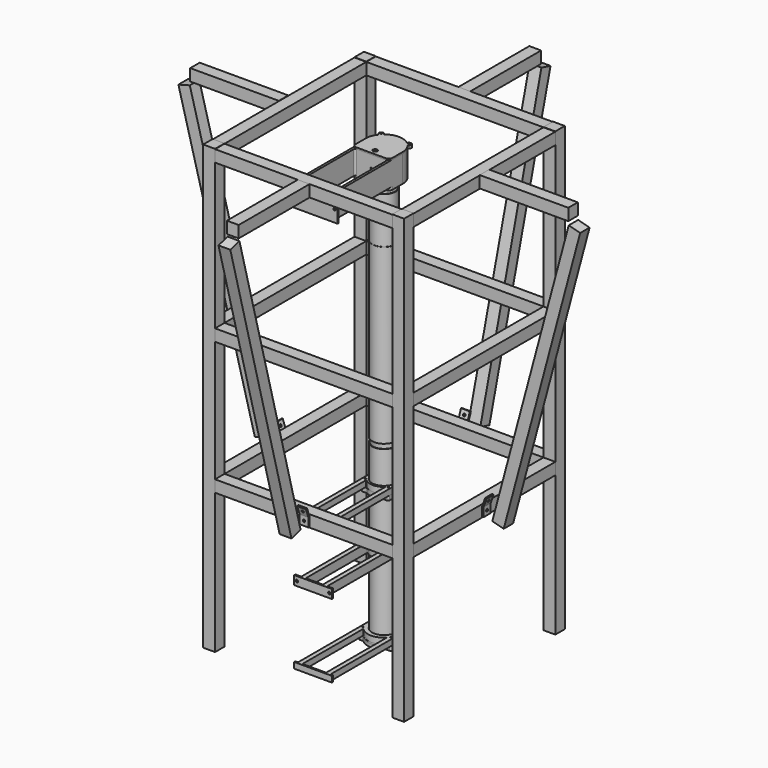
from build123d import *

# Parameters (mm, degrees)
SKETCH032_R             = 40
SKETCH032_R_2           = 38
PAD025_DEPTH            = 124
SKETCH039_R             = 40
SKETCH039_R_2           = 38
PAD031_DEPTH            = 586.5
SKETCH040_R             = 40
SKETCH040_R_2           = 38
PAD032_DEPTH            = 157
SKETCH041_R             = 40
SKETCH041_R_2           = 38
PAD033_DEPTH            = 423.5
SKETCH115_W             = 600
SKETCH115_H             = 40
PAD101_DEPTH            = 40
SKETCH116_W             = 600
SKETCH116_H             = 40
PAD102_DEPTH            = 40
BODY052_PLACEMENT_ANGLE = 90
SKETCH117_W             = 600
SKETCH117_H             = 40
PAD103_DEPTH            = 40
BODY053_PLACEMENT_ANGLE = 180
SKETCH118_W             = 600
SKETCH118_H             = 40
PAD104_DEPTH            = 40
BODY054_PLACEMENT_ANGLE = 90
SKETCH185_W             = 40
SKETCH185_H             = 40
PAD160_DEPTH            = 1500
SKETCH186_W             = 40
SKETCH186_H             = 40
PAD161_DEPTH            = 1500
SKETCH187_W             = 40
SKETCH187_H             = 40
PAD162_DEPTH            = 1500
SKETCH188_W             = 40
SKETCH188_H             = 40
PAD163_DEPTH            = 1500
SKETCH189_W             = 40
SKETCH189_H             = 40
PAD164_DEPTH            = 300
SKETCH190_W             = 40
SKETCH190_H             = 40
PAD165_DEPTH            = 300
SKETCH191_W             = 40
SKETCH191_H             = 40
PAD166_DEPTH            = 300
SKETCH192_W             = 40
SKETCH192_H             = 40
PAD167_DEPTH            = 300
SKETCH193_W             = 40
SKETCH193_H             = 40
PAD168_DEPTH            = 1000
BODY076_PLACEMENT_ANGLE = 15
SKETCH194_W             = 40
SKETCH194_H             = 40
PAD169_DEPTH            = 1000
BODY077_PLACEMENT_ANGLE = 15
SKETCH195_W             = 40
SKETCH195_H             = 40
PAD170_DEPTH            = 1000
BODY078_PLACEMENT_ANGLE = 15
SKETCH196_W             = 40
SKETCH196_H             = 40
PAD171_DEPTH            = 1000
BODY079_PLACEMENT_ANGLE = 15
SKETCH197_W             = 600
SKETCH197_H             = 40
PAD172_DEPTH            = 40
SKETCH198_W             = 600
SKETCH198_H             = 40
PAD173_DEPTH            = 40
SKETCH199_W             = 600
SKETCH199_H             = 40
PAD174_DEPTH            = 40
SKETCH200_W             = 600
SKETCH200_H             = 40
PAD175_DEPTH            = 40
SKETCH204_W             = 600
SKETCH204_H             = 40
PAD179_DEPTH            = 40
SKETCH205_W             = 600
SKETCH205_H             = 40
PAD180_DEPTH            = 40
SKETCH206_W             = 600
SKETCH206_H             = 40
PAD181_DEPTH            = 40
SKETCH207_W             = 600
SKETCH207_H             = 40
PAD182_DEPTH            = 40
PAD183_DEPTH            = 30
SKETCH209_R             = 4.1
POCKET019_DEPTH         = 5
SKETCH210_R             = 4.1
POCKET020_DEPTH         = 5
PAD184_DEPTH            = 30
SKETCH211_R             = 4.1
POCKET021_DEPTH         = 5
SKETCH213_R             = 4.1
POCKET022_DEPTH         = 5
BODY090_PLACEMENT_ANGLE = 90
PAD185_DEPTH            = 30
SKETCH214_R             = 4.1
POCKET023_DEPTH         = 5
SKETCH216_R             = 4.1
POCKET024_DEPTH         = 5
BODY091_PLACEMENT_ANGLE = 180
PAD186_DEPTH            = 30
SKETCH217_R             = 4.1
POCKET025_DEPTH         = 5
SKETCH219_R             = 4.1
POCKET026_DEPTH         = 5
BODY092_PLACEMENT_ANGLE = 90
PAD237_DEPTH            = 30
SKETCH296_R             = 2.25
POCKET049_DEPTH         = 72.001
SKETCH297_R             = 4.1
POCKET050_DEPTH         = 5
PAD238_DEPTH            = 10
PAD239_DEPTH            = 5
PAD240_DEPTH            = 10
SKETCH304_R             = 2.25
POCKET051_DEPTH         = 72.001
SKETCH309_R             = 2.25
POCKET052_DEPTH         = 20.001
SKETCH308_R             = 2.25
PAD242_DEPTH            = 10
SKETCH311_R             = 2.25
PAD243_DEPTH            = 5
SKETCH312_R             = 2.25
POCKET053_DEPTH         = 55.001
BODY095_PLACEMENT_ANGLE = 180
PAD244_DEPTH            = 10
PAD245_DEPTH            = 5
PAD246_DEPTH            = 10
SKETCH316_R             = 2.25
POCKET054_DEPTH         = 72.001
SKETCH318_R             = 2.25
POCKET055_DEPTH         = 20.001
SKETCH317_R             = 2.25
PAD247_DEPTH            = 10
SKETCH319_R             = 2.25
PAD248_DEPTH            = 5
SKETCH320_R             = 2.25
POCKET056_DEPTH         = 63.001
BODY099_PLACEMENT_ANGLE = 180
SKETCH321_R             = 40.5
PAD249_DEPTH            = 10
PAD252_DEPTH            = 75
SKETCH323_R             = 2.25
PAD253_DEPTH            = 5
SKETCH326_R             = 1.7
POCKET057_DEPTH         = 5
SKETCH325_R             = 4.1
POCKET058_DEPTH         = 5
SKETCH324_R             = 2.25
SKETCH324_R_2           = 7.5
PAD254_DEPTH            = 5


with BuildPart() as w2_to_w3_pipe:
    # Sketch032 → Pad025 (new body)
    with BuildSketch(Plane.XY):
        Circle(SKETCH032_R)
        Circle(SKETCH032_R_2, mode=Mode.SUBTRACT)
    extrude(amount=PAD025_DEPTH)


with BuildPart() as w2_to_w3_pipe_1:
    # Body005 placement: moved
    add(w2_to_w3_pipe.part.moved(Location((0, 0, 16))))


with BuildPart() as w3_to_end:
    # Sketch039 → Pad031 (new body)
    with BuildSketch(Plane.XY):
        Circle(SKETCH039_R)
        Circle(SKETCH039_R_2, mode=Mode.SUBTRACT)
    extrude(amount=PAD031_DEPTH)


with BuildPart() as w3_to_end_1:
    # Body007 placement: moved
    add(w3_to_end.part.moved(Location((0, 0, 156))))


with BuildPart() as end_to_sample:
    # Sketch040 → Pad032 (new body)
    with BuildSketch(Plane.XY):
        Circle(SKETCH040_R)
        Circle(SKETCH040_R_2, mode=Mode.SUBTRACT)
    extrude(amount=PAD032_DEPTH)


with BuildPart() as end_to_sample_1:
    # Body008 placement: moved
    add(end_to_sample.part.moved(Location((0, 0, 743))))


with BuildPart() as top_to_w2:
    # Sketch041 → Pad033 (new body)
    with BuildSketch(Plane.XY):
        Circle(SKETCH041_R)
        Circle(SKETCH041_R_2, mode=Mode.SUBTRACT)
    extrude(amount=-PAD033_DEPTH)


with BuildPart() as bottom001:
    # Sketch115 → Pad101 (new body)
    with BuildSketch(Plane.XY):
        with Locations((0, 320)):
            Rectangle(SKETCH115_W, SKETCH115_H)
    extrude(amount=PAD101_DEPTH)


with BuildPart() as bottom001_1:
    # Body051 placement: moved
    add(bottom001.part.moved(Location((0, 0, 1014))))


with BuildPart() as bottom002:
    # Sketch116 → Pad102 (new body)
    with BuildSketch(Plane.XY):
        with Locations((0, 320)):
            Rectangle(SKETCH116_W, SKETCH116_H)
    extrude(amount=PAD102_DEPTH)


with BuildPart() as bottom002_1:
    # Body052 placement: moved
    add(bottom002.part.moved(Location((0, 0, 1014))).rotate(Axis((0, 0, 1014), (0, 0, -1)), BODY052_PLACEMENT_ANGLE))


with BuildPart() as bottom003:
    # Sketch117 → Pad103 (new body)
    with BuildSketch(Plane.XY):
        with Locations((0, 320)):
            Rectangle(SKETCH117_W, SKETCH117_H)
    extrude(amount=PAD103_DEPTH)


with BuildPart() as bottom003_1:
    # Body053 placement: moved
    add(bottom003.part.moved(Location((0, 0, 1014))).rotate(Axis((0, 0, 1014), (0, 0, 1)), BODY053_PLACEMENT_ANGLE))


with BuildPart() as bottom004:
    # Sketch118 → Pad104 (new body)
    with BuildSketch(Plane.XY):
        with Locations((0, 320)):
            Rectangle(SKETCH118_W, SKETCH118_H)
    extrude(amount=PAD104_DEPTH)


with BuildPart() as bottom004_1:
    # Body054 placement: moved
    add(bottom004.part.moved(Location((0, 0, 1014))).rotate(Axis((0, 0, 1014), (0, 0, 1)), BODY054_PLACEMENT_ANGLE))


with BuildPart() as vertical001:
    # Sketch185 → Pad160 (new body)
    with BuildSketch(Plane.XY):
        with Locations((-320, 320)):
            Rectangle(SKETCH185_W, SKETCH185_H)
    extrude(amount=PAD160_DEPTH)


with BuildPart() as vertical001_1:
    # Body068 placement: moved
    add(vertical001.part.moved(Location((0, 0, -445))))


with BuildPart() as vertical002:
    # Sketch186 → Pad161 (new body)
    with BuildSketch(Plane.XY):
        with Locations((-320, 320)):
            Rectangle(SKETCH186_W, SKETCH186_H)
    extrude(amount=PAD161_DEPTH)


with BuildPart() as vertical002_1:
    # Body069 placement: moved
    add(vertical002.part.moved(Location((0, -640, -445))))


with BuildPart() as vertical003:
    # Sketch187 → Pad162 (new body)
    with BuildSketch(Plane.XY):
        with Locations((-320, 320)):
            Rectangle(SKETCH187_W, SKETCH187_H)
    extrude(amount=PAD162_DEPTH)


with BuildPart() as vertical003_1:
    # Body070 placement: moved
    add(vertical003.part.moved(Location((640, -640, -445))))


with BuildPart() as vertical004:
    # Sketch188 → Pad163 (new body)
    with BuildSketch(Plane.XY):
        with Locations((-320, 320)):
            Rectangle(SKETCH188_W, SKETCH188_H)
    extrude(amount=PAD163_DEPTH)


with BuildPart() as vertical004_1:
    # Body071 placement: moved
    add(vertical004.part.moved(Location((640, 0, -445))))


with BuildPart() as brace001:
    # Sketch189 (on Face1 of CopyPad102) → Pad164 (new body)
    with BuildSketch(Plane(origin=(0, 340, 0), x_dir=(-1, 0, 0), z_dir=(0, 1, 0))):
        with Locations((0, 1034)):
            Rectangle(SKETCH189_W, SKETCH189_H)
    extrude(amount=PAD164_DEPTH)


with BuildPart() as brace002:
    # Sketch190 (on Face1 of CopyPad134) → Pad165 (new body)
    with BuildSketch(Plane(origin=(0, 340, 0), x_dir=(-1, 0, 0), z_dir=(0, 1, 0))):
        with Locations((0, 1034)):
            Rectangle(SKETCH190_W, SKETCH190_H)
    extrude(amount=PAD165_DEPTH)


with BuildPart() as brace002_1:
    # Body073 placement: moved
    add(brace002.part.moved(Location((0, -980, 0))))


with BuildPart() as brace003:
    # Sketch191 → Pad166 (new body)
    with BuildSketch(Plane.YZ):
        with Locations((0, 1035)):
            Rectangle(SKETCH191_W, SKETCH191_H)
    extrude(amount=PAD166_DEPTH)


with BuildPart() as brace003_1:
    # Body074 placement: moved
    add(brace003.part.moved(Location((340, 0, 0))))


with BuildPart() as brace004:
    # Sketch192 → Pad167 (new body)
    with BuildSketch(Plane.YZ):
        with Locations((0, 1035)):
            Rectangle(SKETCH192_W, SKETCH192_H)
    extrude(amount=PAD167_DEPTH)


with BuildPart() as brace004_1:
    # Body075 placement: moved
    add(brace004.part.moved(Location((-640, 0, 0))))


with BuildPart() as angled001:
    # Sketch193 (on Face1 of CopyPad164) → Pad168 (new body)
    with BuildSketch(Plane(origin=(0, 0, 1014), x_dir=(1, 0, 0), z_dir=(0, 0, -1))):
        with Locations((0, -660)):
            Rectangle(SKETCH193_W, SKETCH193_H)
    extrude(amount=PAD168_DEPTH)


with BuildPart() as angled001_1:
    # Body076 placement: moved
    add(angled001.part.moved(Location((0, -239.4009459486, 188.3804317834))).rotate(Axis((0, -239.4009459486, 188.3804317834), (-1, 0, 0)), BODY076_PLACEMENT_ANGLE))


with BuildPart() as angled002:
    # Sketch194 (on Face1 of CopyPad165) → Pad169 (new body)
    with BuildSketch(Plane(origin=(0, 0, 1014), x_dir=(1, 0, 0), z_dir=(0, 0, -1))):
        with Locations((0, -660)):
            Rectangle(SKETCH194_W, SKETCH194_H)
    extrude(amount=PAD169_DEPTH)


with BuildPart() as angled002_1:
    # Body077 placement: moved
    add(angled002.part.moved(Location((0, -1031.2376117681, -150.387110959))).rotate(Axis((0, -1031.2376117681, -150.387110959), (1, 0, 0)), BODY077_PLACEMENT_ANGLE))


with BuildPart() as angled003:
    # Sketch195 (on Face1 of CopyPad167) → Pad170 (new body)
    with BuildSketch(Plane.YX.offset(-1015)):
        with Locations((0, -660)):
            Rectangle(SKETCH195_W, SKETCH195_H)
    extrude(amount=PAD170_DEPTH)


with BuildPart() as angled003_1:
    # Body078 placement: moved
    add(angled003.part.moved(Location((239.4009459486, 0, 188.3804317834))).rotate(Axis((239.4009459486, 0, 188.3804317834), (0, -1, 0)), BODY078_PLACEMENT_ANGLE))


with BuildPart() as angled004:
    # Sketch196 (on Face1 of CopyPad166) → Pad171 (new body)
    with BuildSketch(Plane.YX.offset(-1015)):
        with Locations((0, 660)):
            Rectangle(SKETCH196_W, SKETCH196_H)
    extrude(amount=PAD171_DEPTH)


with BuildPart() as angled004_1:
    # Body079 placement: moved
    add(angled004.part.moved(Location((-239.4009459486, 0, 188.3804317834))).rotate(Axis((-239.4009459486, 0, 188.3804317834), (0, 1, 0)), BODY079_PLACEMENT_ANGLE))


with BuildPart() as brace005:
    # Sketch197 (on Face1 of CopyPad161) → Pad172 (new body)
    with BuildSketch(Plane.XZ.offset(-300)):
        Rectangle(SKETCH197_W, SKETCH197_H)
    extrude(amount=-PAD172_DEPTH)


with BuildPart() as brace005_1:
    # Body080 placement: moved
    add(brace005.part.moved(Location((0, 0, 50))))


with BuildPart() as brace006:
    # Sketch198 (on Face1 of CopyPad168) → Pad173 (new body)
    with BuildSketch(Plane.XZ.offset(-300)):
        Rectangle(SKETCH198_W, SKETCH198_H)
    extrude(amount=-PAD173_DEPTH)


with BuildPart() as brace006_1:
    # Body081 placement: moved
    add(brace006.part.moved(Location((0, -640, 50))))


with BuildPart() as brace007:
    # Sketch199 (on Face1 of CopyPad161001) → Pad174 (new body)
    with BuildSketch(Plane(origin=(-340, 0, 0), x_dir=(0, -1, 0), z_dir=(-1, 0, 0))):
        Rectangle(SKETCH199_W, SKETCH199_H)
    extrude(amount=-PAD174_DEPTH)


with BuildPart() as brace007_1:
    # Body082 placement: moved
    add(brace007.part.moved(Location((0, 0, 50))))


with BuildPart() as brace008:
    # Sketch200 (on Face1 of CopyPad161002) → Pad175 (new body)
    with BuildSketch(Plane(origin=(-340, 0, 0), x_dir=(0, -1, 0), z_dir=(-1, 0, 0))):
        Rectangle(SKETCH200_W, SKETCH200_H)
    extrude(amount=-PAD175_DEPTH)


with BuildPart() as brace008_1:
    # Body083 placement: moved
    add(brace008.part.moved(Location((640, 0, 50))))


with BuildPart() as brace009:
    # Sketch204 (on Face1 of CopyPad161003) → Pad179 (new body)
    with BuildSketch(Plane(origin=(-340, 0, 0), x_dir=(0, -1, 0), z_dir=(-1, 0, 0))):
        Rectangle(SKETCH204_W, SKETCH204_H)
    extrude(amount=-PAD179_DEPTH)


with BuildPart() as brace009_1:
    # Body085 placement: moved
    add(brace009.part.moved(Location((0, 0, 500))))


with BuildPart() as brace010:
    # Sketch205 (on Face1 of CopyPad161004) → Pad180 (new body)
    with BuildSketch(Plane.XZ.offset(-300)):
        Rectangle(SKETCH205_W, SKETCH205_H)
    extrude(amount=-PAD180_DEPTH)


with BuildPart() as brace010_1:
    # Body086 placement: moved
    add(brace010.part.moved(Location((0, -640, 500))))


with BuildPart() as brace011:
    # Sketch206 (on Face1 of CopyPad161005) → Pad181 (new body)
    with BuildSketch(Plane(origin=(-340, 0, 0), x_dir=(0, -1, 0), z_dir=(-1, 0, 0))):
        Rectangle(SKETCH206_W, SKETCH206_H)
    extrude(amount=-PAD181_DEPTH)


with BuildPart() as brace011_1:
    # Body087 placement: moved
    add(brace011.part.moved(Location((640, 0, 500))))


with BuildPart() as brace012:
    # Sketch207 (on Face1 of CopyPad161006) → Pad182 (new body)
    with BuildSketch(Plane.XZ.offset(-300)):
        Rectangle(SKETCH207_W, SKETCH207_H)
    extrude(amount=-PAD182_DEPTH)


with BuildPart() as brace012_1:
    # Body088 placement: moved
    add(brace012.part.moved(Location((0, 0, 500))))


with BuildPart() as angled_connector001:
    # Sketch208 (on Face1 of CopyPad170) → Pad183 (new body)
    with BuildSketch(Plane(origin=(0, -20, 0), x_dir=(0, 0, -1), z_dir=(0, -1, 0))):
        Polygon((-32.5, -340), (-32.5, -345), (-62.5, -345), (-90.6907786236, -355.2606042998), (-92.2977476478, -350.845493192), (-62.5, -340), align=None)
    extrude(amount=-PAD183_DEPTH)

    # Sketch209 (on Face2 of Pad183) → Pocket019 (cut)
    with BuildSketch(Plane(origin=(-345, 0, 0), x_dir=(0, 1, 0), z_dir=(-1, 0, 0))):
        with Locations((-5, -47.5)):
            Circle(SKETCH209_R)
    extrude(amount=-POCKET019_DEPTH, mode=Mode.SUBTRACT)

    # Sketch210 (on Face8 of Pocket019) → Pocket020 (cut)
    with BuildSketch(Plane(origin=(-284.5555536353, 0, -103.5697515184), x_dir=(0, 1, 0), z_dir=(-0.9396926208, 0, -0.3420201433))):
        with Locations((-5, -192.5)):
            Circle(SKETCH210_R)
    extrude(amount=-POCKET020_DEPTH, mode=Mode.SUBTRACT)


with BuildPart() as angled_connector002:
    # Sketch212 (on Face1 of CopyPad161007) → Pad184 (new body)
    with BuildSketch(Plane(origin=(0, -20, 0), x_dir=(0, 0, -1), z_dir=(0, -1, 0))):
        Polygon((-32.5, -340), (-32.5, -345), (-62.5, -345), (-90.6907786236, -355.2606042998), (-92.2977476478, -350.845493192), (-62.5, -340), align=None)
    extrude(amount=-PAD184_DEPTH)

    # Sketch211 (on Face2 of Pad184) → Pocket021 (cut)
    with BuildSketch(Plane(origin=(-345, 0, 0), x_dir=(0, 1, 0), z_dir=(-1, 0, 0))):
        with Locations((-5, -47.5)):
            Circle(SKETCH211_R)
    extrude(amount=-POCKET021_DEPTH, mode=Mode.SUBTRACT)

    # Sketch213 (on Face8 of Pocket021) → Pocket022 (cut)
    with BuildSketch(Plane(origin=(-284.5555536353, 0, -103.5697515184), x_dir=(0, 1, 0), z_dir=(-0.9396926208, 0, -0.3420201433))):
        with Locations((-5, -192.5)):
            Circle(SKETCH213_R)
    extrude(amount=-POCKET022_DEPTH, mode=Mode.SUBTRACT)


with BuildPart() as angled_connector002_1:
    # Body090 placement: moved
    add(angled_connector002.part.rotate(Axis((0, 0, 0), (0, 0, 1)), BODY090_PLACEMENT_ANGLE))


with BuildPart() as angled_connector003:
    # Sketch215 (on Face1 of CopyPad161008) → Pad185 (new body)
    with BuildSketch(Plane(origin=(0, -20, 0), x_dir=(0, 0, -1), z_dir=(0, -1, 0))):
        Polygon((-32.5, -340), (-32.5, -345), (-62.5, -345), (-90.6907786236, -355.2606042998), (-92.2977476478, -350.845493192), (-62.5, -340), align=None)
    extrude(amount=-PAD185_DEPTH)

    # Sketch214 (on Face2 of Pad185) → Pocket023 (cut)
    with BuildSketch(Plane(origin=(-345, 0, 0), x_dir=(0, 1, 0), z_dir=(-1, 0, 0))):
        with Locations((-5, -47.5)):
            Circle(SKETCH214_R)
    extrude(amount=-POCKET023_DEPTH, mode=Mode.SUBTRACT)

    # Sketch216 (on Face8 of Pocket023) → Pocket024 (cut)
    with BuildSketch(Plane(origin=(-284.5555536353, 0, -103.5697515184), x_dir=(0, 1, 0), z_dir=(-0.9396926208, 0, -0.3420201433))):
        with Locations((-5, -192.5)):
            Circle(SKETCH216_R)
    extrude(amount=-POCKET024_DEPTH, mode=Mode.SUBTRACT)


with BuildPart() as angled_connector003_1:
    # Body091 placement: moved
    add(angled_connector003.part.rotate(Axis((0, 0, 0), (0, 0, 1)), BODY091_PLACEMENT_ANGLE))


with BuildPart() as angled_connector004:
    # Sketch218 (on Face1 of CopyPad161009) → Pad186 (new body)
    with BuildSketch(Plane(origin=(0, -20, 0), x_dir=(0, 0, -1), z_dir=(0, -1, 0))):
        Polygon((-32.5, -340), (-32.5, -345), (-62.5, -345), (-90.6907786236, -355.2606042998), (-92.2977476478, -350.845493192), (-62.5, -340), align=None)
    extrude(amount=-PAD186_DEPTH)

    # Sketch217 (on Face2 of Pad186) → Pocket025 (cut)
    with BuildSketch(Plane(origin=(-345, 0, 0), x_dir=(0, 1, 0), z_dir=(-1, 0, 0))):
        with Locations((-5, -47.5)):
            Circle(SKETCH217_R)
    extrude(amount=-POCKET025_DEPTH, mode=Mode.SUBTRACT)

    # Sketch219 (on Face8 of Pocket025) → Pocket026 (cut)
    with BuildSketch(Plane(origin=(-284.5555536353, 0, -103.5697515184), x_dir=(0, 1, 0), z_dir=(-0.9396926208, 0, -0.3420201433))):
        with Locations((-5, -192.5)):
            Circle(SKETCH219_R)
    extrude(amount=-POCKET026_DEPTH, mode=Mode.SUBTRACT)


with BuildPart() as angled_connector004_1:
    # Body092 placement: moved
    add(angled_connector004.part.rotate(Axis((0, 0, 0), (0, 0, -1)), BODY092_PLACEMENT_ANGLE))


with BuildPart() as pipesupport002:
    # Sketch121 → Pad237 (new body)
    with BuildSketch(Plane.XY):
        with BuildLine():
            ThreePointArc((-6.28125, 40.0099474936), (0, -40.5), (6.28125, 40.0099474936))
            ThreePointArc((4, 42.6772773265), (4.648095397, 40.9223734829), (6.28125, 40.0099474936))
            Line((4, 42.6772773265), (4, 53.8998886413))
            ThreePointArc((5, 54.8998886413), (4.2928932188, 54.6069954225), (4, 53.8998886413))
            Line((5, 54.8998886413), (7, 54.8998886413))
            ThreePointArc((8, 53.8998886413), (7.7071067812, 54.6069954225), (7, 54.8998886413))
            Line((8, 44.8998886413), (8, 53.8998886413))
            ThreePointArc((8, 44.8998886413), (8.4396210048, 43.6488021569), (9.5652173913, 42.9477195699))
            ThreePointArc((44, 0), (34.3283378946, 27.5239026555), (9.5652173913, 42.9477195699))
            Line((44, 0), (44, -292))
            ThreePointArc((44, -292), (44.8786796564, -294.1213203436), (47, -295))
            Line((47, -295), (63, -295))
            ThreePointArc((64, -296), (63.7071067812, -295.2928932188), (63, -295))
            Line((64, -300), (64, -296))
            Line((-64, -300), (64, -300))
            Line((-64, -300), (-64, -296))
            ThreePointArc((-63, -295), (-63.7071067812, -295.2928932188), (-64, -296))
            Line((-47, -295), (-63, -295))
            ThreePointArc((-47, -295), (-44.8786796564, -294.1213203436), (-44, -292))
            Line((-44, 0), (-44, -292))
            ThreePointArc((-9.5652173913, 42.9477195699), (-34.3283378946, 27.5239026555), (-44, 0))
            ThreePointArc((-9.5652173913, 42.9477195699), (-8.4396210048, 43.6488021569), (-8, 44.8998886413))
            Line((-8, 44.8998886413), (-8, 53.8998886413))
            ThreePointArc((-7, 54.8998886413), (-7.7071067812, 54.6069954225), (-8, 53.8998886413))
            Line((-5, 54.8998886413), (-7, 54.8998886413))
            ThreePointArc((-4, 53.8998886413), (-4.2928932188, 54.6069954225), (-5, 54.8998886413))
            Line((-4, 42.6772773265), (-4, 53.8998886413))
            ThreePointArc((-6.28125, 40.0099474936), (-4.648095397, 40.9223734829), (-4, 42.6772773265))
        make_face()
        with BuildLine():
            Line((-26, -295), (26, -295))
            ThreePointArc((26, -295), (28.1213203436, -294.1213203436), (29, -292))
            Line((29, -292), (29, -35.2278299076))
            ThreePointArc((29, -35.2278299076), (28.4346134937, -34.3272128352), (27.3777777778, -34.444989243))
            ThreePointArc((-27.3777777778, -34.444989243), (0, -44), (27.3777777778, -34.444989243))
            ThreePointArc((-27.3777777778, -34.444989243), (-28.4346134937, -34.3272128352), (-29, -35.2278299076))
            Line((-29, -292), (-29, -35.2278299076))
            ThreePointArc((-29, -292), (-28.1213203436, -294.1213203436), (-26, -295))
        make_face(mode=Mode.SUBTRACT)
    extrude(amount=PAD237_DEPTH)

    # Sketch296 (on Face23 of Pad237) → Pocket049 (cut, through all)
    with BuildSketch(Plane(origin=(-8, 0, 0), x_dir=(0, -1, 0), z_dir=(-1, 0, 0))):
        with Locations((-49, 15)):
            Circle(SKETCH296_R)
    extrude(amount=-POCKET049_DEPTH, mode=Mode.SUBTRACT)

    # Sketch297 (on Face22 of Pocket049) → Pocket050 (cut)
    with BuildSketch(Plane(origin=(0, -295, 0), x_dir=(-1, 0, 0), z_dir=(0, 1, 0))):
        with Locations((-55, 15)):
            Circle(SKETCH297_R)
        with Locations((55, 15)):
            Circle(SKETCH297_R)
    extrude(amount=-POCKET050_DEPTH, mode=Mode.SUBTRACT)


with BuildPart() as pipesupport002_1:
    # Body035 placement: moved
    add(pipesupport002.part.moved(Location((0, 0, 484))))


with BuildPart() as pipesupport002_2:
    # Body093 placement: moved
    add(pipesupport002_1.part.moved(Location((0, 0, -669))))


with BuildPart() as windowsupport003:
    # Sketch300 → Pad238 (new body)
    with BuildSketch(Plane.XY):
        with BuildLine():
            ThreePointArc((-7.2808988764, 39.8401620422), (0, -40.5), (7.2808988764, 39.8401620422))
            ThreePointArc((4, 43.7749928612), (4.9278342741, 41.213392238), (7.2808988764, 39.8401620422))
            Line((4, 43.7749928612), (4, 56.9687398208))
            ThreePointArc((5, 57.9687398208), (4.2928932188, 57.675846602), (4, 56.9687398208))
            Line((5, 57.9687398208), (7, 57.9687398208))
            ThreePointArc((8, 56.9687398208), (7.7071067812, 57.675846602), (7, 57.9687398208))
            Line((8, 47.9687398208), (8, 56.9687398208))
            ThreePointArc((8, 47.9687398208), (8.4481742155, 46.7070596971), (9.5918367347, 46.0108320731))
            ThreePointArc((47, 0), (36.4679059347, 29.6494829084), (9.5918367347, 46.0108320731))
            Line((47, 0), (47, -292))
            ThreePointArc((47, -292), (47.8786796564, -294.1213203436), (50, -295))
            Line((50, -295), (63, -295))
            ThreePointArc((64, -296), (63.7071067812, -295.2928932188), (63, -295))
            Line((64, -300), (64, -296))
            Line((-64, -300), (64, -300))
            Line((-64, -300), (-64, -296))
            ThreePointArc((-63, -295), (-63.7071067812, -295.2928932188), (-64, -296))
            Line((-50, -295), (-63, -295))
            ThreePointArc((-50, -295), (-47.8786796564, -294.1213203436), (-47, -292))
            Line((-47, 0), (-47, -292))
            ThreePointArc((-9.5918367347, 46.0108320731), (-36.4679059347, 29.6494829084), (-47, 0))
            ThreePointArc((-9.5918367347, 46.0108320731), (-8.4481742155, 46.7070596971), (-8, 47.9687398208))
            Line((-8, 47.9687398208), (-8, 56.9687398208))
            ThreePointArc((-7, 57.9687398208), (-7.7071067812, 57.675846602), (-8, 56.9687398208))
            Line((-5, 57.9687398208), (-7, 57.9687398208))
            ThreePointArc((-4, 56.9687398208), (-4.2928932188, 57.675846602), (-5, 57.9687398208))
            Line((-4, 43.7749928612), (-4, 56.9687398208))
            ThreePointArc((-7.2808988764, 39.8401620422), (-4.9278342741, 41.213392238), (-4, 43.7749928612))
        make_face()
        with BuildLine():
            Line((-29, -295), (29, -295))
            ThreePointArc((29, -295), (31.1213203436, -294.1213203436), (32, -292))
            Line((32, -292), (32, -36.6469644036))
            ThreePointArc((32, -36.6469644036), (31.4208127058, -35.7398168596), (30.3541666667, -35.8834859785))
            ThreePointArc((-30.3541666667, -35.8834859785), (0, -47), (30.3541666667, -35.8834859785))
            ThreePointArc((-30.3541666667, -35.8834859785), (-31.4208127058, -35.7398168596), (-32, -36.6469644036))
            Line((-32, -292), (-32, -36.6469644036))
            ThreePointArc((-32, -292), (-31.1213203436, -294.1213203436), (-29, -295))
        make_face(mode=Mode.SUBTRACT)
    extrude(amount=PAD238_DEPTH)

    # Sketch301 → Pad239 (join)
    with BuildSketch(Plane.XY):
        with BuildLine():
            ThreePointArc((-7.2380952381, 37.3042889937), (0, -38), (7.2380952381, 37.3042889937))
            ThreePointArc((4, 41.2310562562), (4.9139330008, 38.6862202151), (7.2380952381, 37.3042889937))
            Line((4, 41.2310562562), (4, 56.9687398208))
            ThreePointArc((5, 57.9687398208), (4.2928932188, 57.675846602), (4, 56.9687398208))
            Line((5, 57.9687398208), (7, 57.9687398208))
            ThreePointArc((8, 56.9687398208), (7.7071067812, 57.675846602), (7, 57.9687398208))
            Line((8, 47.9687398208), (8, 56.9687398208))
            ThreePointArc((8, 47.9687398208), (8.4481742155, 46.7070596971), (9.5918367347, 46.0108320731))
            ThreePointArc((47, 0), (36.4679059347, 29.6494829084), (9.5918367347, 46.0108320731))
            Line((47, 0), (47, -292))
            ThreePointArc((47, -292), (47.8786796564, -294.1213203436), (50, -295))
            Line((50, -295), (63, -295))
            ThreePointArc((64, -296), (63.7071067812, -295.2928932188), (63, -295))
            Line((64, -300), (64, -296))
            Line((-64, -300), (64, -300))
            Line((-64, -300), (-64, -296))
            ThreePointArc((-63, -295), (-63.7071067812, -295.2928932188), (-64, -296))
            Line((-50, -295), (-63, -295))
            ThreePointArc((-50, -295), (-47.8786796564, -294.1213203436), (-47, -292))
            Line((-47, 0), (-47, -292))
            ThreePointArc((-9.5918367347, 46.0108320731), (-36.4679059347, 29.6494829084), (-47, 0))
            ThreePointArc((-9.5918367347, 46.0108320731), (-8.4481742155, 46.7070596971), (-8, 47.9687398208))
            Line((-8, 47.9687398208), (-8, 56.9687398208))
            ThreePointArc((-7, 57.9687398208), (-7.7071067812, 57.675846602), (-8, 56.9687398208))
            Line((-5, 57.9687398208), (-7, 57.9687398208))
            ThreePointArc((-4, 56.9687398208), (-4.2928932188, 57.675846602), (-5, 57.9687398208))
            Line((-4, 41.2310562562), (-4, 56.9687398208))
            ThreePointArc((-7.2380952381, 37.3042889937), (-4.9139330008, 38.6862202151), (-4, 41.2310562562))
        make_face()
        with BuildLine():
            Line((-29, -295), (29, -295))
            ThreePointArc((29, -295), (31.1213203436, -294.1213203436), (32, -292))
            Line((32, -292), (32, -36.6469644036))
            ThreePointArc((32, -36.6469644036), (31.4208127058, -35.7398168596), (30.3541666667, -35.8834859785))
            ThreePointArc((-30.3541666667, -35.8834859785), (0, -47), (30.3541666667, -35.8834859785))
            ThreePointArc((-30.3541666667, -35.8834859785), (-31.4208127058, -35.7398168596), (-32, -36.6469644036))
            Line((-32, -292), (-32, -36.6469644036))
            ThreePointArc((-32, -292), (-31.1213203436, -294.1213203436), (-29, -295))
        make_face(mode=Mode.SUBTRACT)
    extrude(amount=-PAD239_DEPTH)

    # Sketch303 → Pad240 (join)
    with BuildSketch(Plane.XY):
        with BuildLine():
            ThreePointArc((-7.2888888889, 40.3468970153), (0, -41), (7.2888888889, 40.3468970153))
            ThreePointArc((4, 44.283179651), (4.9304361511, 41.7184617761), (7.2888888889, 40.3468970153))
            Line((4, 44.283179651), (4, 56.9687398208))
            ThreePointArc((5, 57.9687398208), (4.2928932188, 57.675846602), (4, 56.9687398208))
            Line((5, 57.9687398208), (7, 57.9687398208))
            ThreePointArc((8, 56.9687398208), (7.7071067812, 57.675846602), (7, 57.9687398208))
            Line((8, 47.9687398208), (8, 56.9687398208))
            ThreePointArc((8, 47.9687398208), (8.4481742155, 46.7070596971), (9.5918367347, 46.0108320731))
            ThreePointArc((47, 0), (36.4679059347, 29.6494829084), (9.5918367347, 46.0108320731))
            Line((47, 0), (47, -292))
            ThreePointArc((47, -292), (47.8786796564, -294.1213203436), (50, -295))
            Line((50, -295), (63, -295))
            ThreePointArc((64, -296), (63.7071067812, -295.2928932188), (63, -295))
            Line((64, -300), (64, -296))
            Line((-64, -300), (64, -300))
            Line((-64, -300), (-64, -296))
            ThreePointArc((-63, -295), (-63.7071067812, -295.2928932188), (-64, -296))
            Line((-50, -295), (-63, -295))
            ThreePointArc((-50, -295), (-47.8786796564, -294.1213203436), (-47, -292))
            Line((-47, 0), (-47, -292))
            ThreePointArc((-9.5918367347, 46.0108320731), (-36.4679059347, 29.6494829084), (-47, 0))
            ThreePointArc((-9.5918367347, 46.0108320731), (-8.4481742155, 46.7070596971), (-8, 47.9687398208))
            Line((-8, 47.9687398208), (-8, 56.9687398208))
            ThreePointArc((-7, 57.9687398208), (-7.7071067812, 57.675846602), (-8, 56.9687398208))
            Line((-5, 57.9687398208), (-7, 57.9687398208))
            ThreePointArc((-4, 56.9687398208), (-4.2928932188, 57.675846602), (-5, 57.9687398208))
            Line((-4, 44.283179651), (-4, 56.9687398208))
            ThreePointArc((-7.2888888889, 40.3468970153), (-4.9304361511, 41.7184617761), (-4, 44.283179651))
        make_face()
        with BuildLine():
            Line((-29, -295), (29, -295))
            ThreePointArc((29, -295), (31.1213203436, -294.1213203436), (32, -292))
            Line((32, -292), (32, -36.6469644036))
            ThreePointArc((32, -36.6469644036), (31.4208127058, -35.7398168596), (30.3541666667, -35.8834859785))
            ThreePointArc((-30.3541666667, -35.8834859785), (0, -47), (30.3541666667, -35.8834859785))
            ThreePointArc((-30.3541666667, -35.8834859785), (-31.4208127058, -35.7398168596), (-32, -36.6469644036))
            Line((-32, -292), (-32, -36.6469644036))
            ThreePointArc((-32, -292), (-31.1213203436, -294.1213203436), (-29, -295))
        make_face(mode=Mode.SUBTRACT)
    extrude(amount=-PAD240_DEPTH)

    # Sketch304 (on Face32 of Pad240) → Pocket051 (cut, through all)
    with BuildSketch(Plane(origin=(-8, 0, 0), x_dir=(0, -1, 0), z_dir=(-1, 0, 0))):
        with Locations((-52, 5)):
            Circle(SKETCH304_R)
    extrude(amount=-POCKET051_DEPTH, mode=Mode.SUBTRACT)

    # Sketch309 (on Face5 of Pocket051) → Pocket052 (cut, through all)
    with BuildSketch(Plane.XY.offset(10)):
        with Locations((-39, -30)):
            Circle(SKETCH309_R)
        with Locations((39, -30)):
            Circle(SKETCH309_R)
    extrude(amount=-POCKET052_DEPTH, mode=Mode.SUBTRACT)


with BuildPart() as windowsupport003_1:
    # Body094 placement: moved
    add(windowsupport003.part.moved(Location((0, 0, 156))))


with BuildPart() as windowsupport003_2:
    # Body096 placement: moved
    add(windowsupport003_1.part.moved(Location((0, 0, -135))))


with BuildPart() as windowsupport4:
    # Sketch308 → Pad242 (new body)
    with BuildSketch(Plane.XY):
        with BuildLine():
            Line((-8, 47.9687398208), (-8, 56.9687398208))
            ThreePointArc((-7, 57.9687398208), (-7.7071067812, 57.675846602), (-8, 56.9687398208))
            Line((-5, 57.9687398208), (-7, 57.9687398208))
            ThreePointArc((-4, 56.9687398208), (-4.2928932188, 57.675846602), (-5, 57.9687398208))
            Line((-4, 43.7749928612), (-4, 56.9687398208))
            ThreePointArc((-7.2808988764, 39.8401620422), (-4.9278342741, 41.213392238), (-4, 43.7749928612))
            ThreePointArc((-7.2808988764, 39.8401620422), (0, -40.5), (7.2808988764, 39.8401620422))
            ThreePointArc((4, 43.7749928612), (4.9278342741, 41.213392238), (7.2808988764, 39.8401620422))
            Line((4, 43.7749928612), (4, 56.9687398208))
            ThreePointArc((5, 57.9687398208), (4.2928932188, 57.675846602), (4, 56.9687398208))
            Line((5, 57.9687398208), (7, 57.9687398208))
            ThreePointArc((8, 56.9687398208), (7.7071067812, 57.675846602), (7, 57.9687398208))
            Line((8, 47.9687398208), (8, 56.9687398208))
            ThreePointArc((8, 47.9687398208), (8.4481742156, 46.7070596971), (9.5918367347, 46.0108320731))
            ThreePointArc((47, 0), (36.4679059347, 29.6494829084), (9.5918367347, 46.0108320731))
            Line((47, 0), (47, -35))
            ThreePointArc((42, -40), (45.5355339059, -38.5355339059), (47, -35))
            Line((42, -40), (27.3678643668, -40))
            ThreePointArc((27.3678643668, -40), (24.8898912279, -40.3118810328), (22.5664846533, -41.2280701754))
            ThreePointArc((-22.5664846533, -41.2280701754), (0, -47), (22.5664846533, -41.2280701754))
            ThreePointArc((-22.5664846533, -41.2280701754), (-24.8898912279, -40.3118810328), (-27.3678643668, -40))
            Line((-42, -40), (-27.3678643668, -40))
            ThreePointArc((-47, -35), (-45.5355339059, -38.5355339059), (-42, -40))
            Line((-47, 0), (-47, -35))
            ThreePointArc((-9.5918367347, 46.0108320731), (-36.4679059347, 29.6494829084), (-47, 0))
            ThreePointArc((-9.5918367347, 46.0108320731), (-8.4481742155, 46.7070596971), (-8, 47.9687398208))
        make_face()
        with Locations((-39, -30)):
            Circle(SKETCH308_R, mode=Mode.SUBTRACT)
        with Locations((39, -30)):
            Circle(SKETCH308_R, mode=Mode.SUBTRACT)
    extrude(amount=PAD242_DEPTH)

    # Sketch311 → Pad243 (join)
    with BuildSketch(Plane.XY):
        with BuildLine():
            Line((-8, 47.9687398208), (-8, 56.9687398208))
            ThreePointArc((-7, 57.9687398208), (-7.7071067812, 57.675846602), (-8, 56.9687398208))
            Line((-5, 57.9687398208), (-7, 57.9687398208))
            ThreePointArc((-4, 56.9687398208), (-4.2928932188, 57.675846602), (-5, 57.9687398208))
            Line((-4, 41.2310562562), (-4, 56.9687398208))
            ThreePointArc((-7.2380952381, 37.3042889937), (-4.9139330008, 38.6862202151), (-4, 41.2310562562))
            ThreePointArc((-7.2380952381, 37.3042889937), (0, -38), (7.2380952381, 37.3042889937))
            ThreePointArc((4, 41.2310562562), (4.9139330008, 38.6862202151), (7.2380952381, 37.3042889937))
            Line((4, 41.2310562562), (4, 56.9687398208))
            ThreePointArc((5, 57.9687398208), (4.2928932188, 57.675846602), (4, 56.9687398208))
            Line((5, 57.9687398208), (7, 57.9687398208))
            ThreePointArc((8, 56.9687398208), (7.7071067812, 57.675846602), (7, 57.9687398208))
            Line((8, 47.9687398208), (8, 56.9687398208))
            ThreePointArc((8, 47.9687398208), (8.4481742155, 46.7070596971), (9.5918367347, 46.0108320731))
            ThreePointArc((47, 0), (36.4679059347, 29.6494829084), (9.5918367347, 46.0108320731))
            Line((47, 0), (47, -35))
            ThreePointArc((42, -40), (45.5355339059, -38.5355339059), (47, -35))
            Line((42, -40), (27.3678643668, -40))
            ThreePointArc((27.3678643668, -40), (24.8898912279, -40.3118810328), (22.5664846533, -41.2280701754))
            ThreePointArc((-22.5664846533, -41.2280701754), (0, -47), (22.5664846533, -41.2280701754))
            ThreePointArc((-22.5664846533, -41.2280701754), (-24.8898912279, -40.3118810328), (-27.3678643668, -40))
            Line((-42, -40), (-27.3678643668, -40))
            ThreePointArc((-47, -35), (-45.5355339059, -38.5355339059), (-42, -40))
            Line((-47, 0), (-47, -35))
            ThreePointArc((-9.5918367347, 46.0108320731), (-36.4679059347, 29.6494829084), (-47, 0))
            ThreePointArc((-9.5918367347, 46.0108320731), (-8.4481742155, 46.7070596971), (-8, 47.9687398208))
        make_face()
        with Locations((-39, -30)):
            Circle(SKETCH311_R, mode=Mode.SUBTRACT)
        with Locations((39, -30)):
            Circle(SKETCH311_R, mode=Mode.SUBTRACT)
    extrude(amount=-PAD243_DEPTH)

    # Sketch312 (on Face21 of Pad243) → Pocket053 (cut, through all)
    with BuildSketch(Plane.YZ.offset(8)):
        with Locations((52, 2.5)):
            Circle(SKETCH312_R)
    extrude(amount=-POCKET053_DEPTH, mode=Mode.SUBTRACT)


with BuildPart() as windowsupport4_1:
    # Body095 placement: moved
    add(windowsupport4.part.moved(Location((0, 0, 141))).rotate(Axis((0, 0, 141), (0, 1, 0)), BODY095_PLACEMENT_ANGLE))


with BuildPart() as windowsupport4_2:
    # Body097 placement: moved
    add(windowsupport4_1.part.moved(Location((0, 0, -135))))


with BuildPart() as topwindow001:
    # Sketch313 → Pad244 (new body)
    with BuildSketch(Plane.XY):
        with BuildLine():
            ThreePointArc((-7.2808988764, 39.8401620422), (0, -40.5), (7.2808988764, 39.8401620422))
            ThreePointArc((4, 43.7749928612), (4.9278342741, 41.213392238), (7.2808988764, 39.8401620423))
            Line((4, 43.7749928612), (4, 65.1159513864))
            ThreePointArc((5, 66.1159513864), (4.2928932188, 65.8230581676), (4, 65.1159513864))
            Line((5, 66.1159513864), (7, 66.1159513864))
            ThreePointArc((8, 65.1159513864), (7.7071067812, 65.8230581676), (7, 66.1159513864))
            Line((8, 56.1159513864), (8, 65.1159513864))
            ThreePointArc((8, 56.1159513864), (8.4667429462, 54.8317696208), (9.649122807, 54.146970636))
            ThreePointArc((55, 0), (42.1645689791, 35.3149985531), (9.649122807, 54.146970636))
            Line((55, 0), (55, -292))
            ThreePointArc((55, -292), (55.8786796564, -294.1213203436), (58, -295))
            Line((58, -295), (63, -295))
            ThreePointArc((64, -296), (63.7071067812, -295.2928932188), (63, -295))
            Line((64, -300), (64, -296))
            Line((-64, -300), (64, -300))
            Line((-64, -300), (-64, -296))
            ThreePointArc((-63, -295), (-63.7071067812, -295.2928932188), (-64, -296))
            Line((-58, -295), (-63, -295))
            ThreePointArc((-58, -295), (-55.8786796564, -294.1213203436), (-55, -292))
            Line((-55, 0), (-55, -292))
            ThreePointArc((-9.649122807, 54.146970636), (-42.1645689791, 35.3149985531), (-55, 0))
            ThreePointArc((-9.649122807, 54.146970636), (-8.4667429462, 54.8317696208), (-8, 56.1159513864))
            Line((-8, 56.1159513864), (-8, 65.1159513864))
            ThreePointArc((-7, 66.1159513864), (-7.7071067812, 65.8230581676), (-8, 65.1159513864))
            Line((-5, 66.1159513864), (-7, 66.1159513864))
            ThreePointArc((-4, 65.1159513864), (-4.2928932188, 65.8230581676), (-5, 66.1159513864))
            Line((-4, 43.7749928612), (-4, 65.1159513864))
            ThreePointArc((-7.2808988764, 39.8401620423), (-4.9278342741, 41.213392238), (-4, 43.7749928612))
        make_face()
        with BuildLine():
            Line((-37, -295), (37, -295))
            ThreePointArc((37, -295), (39.1213203436, -294.1213203436), (40, -292))
            Line((40, -292), (40, -40.1870625948))
            ThreePointArc((40, -40.1870625948), (39.3895968612, -39.2660770978), (38.3035714286, -39.4694364771))
            ThreePointArc((-38.3035714286, -39.4694364771), (0, -55), (38.3035714286, -39.4694364771))
            ThreePointArc((-38.3035714286, -39.4694364771), (-39.3895968612, -39.2660770978), (-40, -40.1870625948))
            Line((-40, -292), (-40, -40.1870625948))
            ThreePointArc((-40, -292), (-39.1213203436, -294.1213203436), (-37, -295))
        make_face(mode=Mode.SUBTRACT)
    extrude(amount=PAD244_DEPTH)

    # Sketch314 → Pad245 (join)
    with BuildSketch(Plane.XY):
        with BuildLine():
            ThreePointArc((-7.2380952381, 37.3042889937), (0, -38), (7.2380952381, 37.3042889937))
            ThreePointArc((4, 41.2310562562), (4.9139330008, 38.6862202151), (7.2380952381, 37.3042889937))
            Line((4, 41.2310562562), (4, 65.1159513864))
            ThreePointArc((5, 66.1159513864), (4.2928932188, 65.8230581676), (4, 65.1159513864))
            Line((5, 66.1159513864), (7, 66.1159513864))
            ThreePointArc((8, 65.1159513864), (7.7071067812, 65.8230581676), (7, 66.1159513864))
            Line((8, 56.1159513864), (8, 65.1159513864))
            ThreePointArc((8, 56.1159513864), (8.4667429462, 54.8317696208), (9.649122807, 54.146970636))
            ThreePointArc((55, 0), (42.1645689791, 35.3149985531), (9.649122807, 54.146970636))
            Line((55, 0), (55, -292))
            ThreePointArc((55, -292), (55.8786796564, -294.1213203436), (58, -295))
            Line((58, -295), (63, -295))
            ThreePointArc((64, -296), (63.7071067812, -295.2928932188), (63, -295))
            Line((64, -300), (64, -296))
            Line((-64, -300), (64, -300))
            Line((-64, -300), (-64, -296))
            ThreePointArc((-63, -295), (-63.7071067812, -295.2928932188), (-64, -296))
            Line((-58, -295), (-63, -295))
            ThreePointArc((-58, -295), (-55.8786796564, -294.1213203436), (-55, -292))
            Line((-55, 0), (-55, -292))
            ThreePointArc((-9.649122807, 54.146970636), (-42.1645689791, 35.3149985531), (-55, 0))
            ThreePointArc((-9.649122807, 54.146970636), (-8.4667429462, 54.8317696208), (-8, 56.1159513864))
            Line((-8, 56.1159513864), (-8, 65.1159513864))
            ThreePointArc((-7, 66.1159513864), (-7.7071067812, 65.8230581676), (-8, 65.1159513864))
            Line((-5, 66.1159513864), (-7, 66.1159513864))
            ThreePointArc((-4, 65.1159513864), (-4.2928932188, 65.8230581676), (-5, 66.1159513864))
            Line((-4, 41.2310562562), (-4, 65.1159513864))
            ThreePointArc((-7.2380952381, 37.3042889937), (-4.9139330008, 38.6862202151), (-4, 41.2310562562))
        make_face()
        with BuildLine():
            Line((-37, -295), (37, -295))
            ThreePointArc((37, -295), (39.1213203436, -294.1213203436), (40, -292))
            Line((40, -292), (40, -40.1870625948))
            ThreePointArc((40, -40.1870625948), (39.3895968612, -39.2660770978), (38.3035714286, -39.4694364771))
            ThreePointArc((-38.3035714286, -39.4694364771), (0, -55), (38.3035714286, -39.4694364771))
            ThreePointArc((-38.3035714286, -39.4694364771), (-39.3895968612, -39.2660770978), (-40, -40.1870625948))
            Line((-40, -292), (-40, -40.1870625948))
            ThreePointArc((-40, -292), (-39.1213203436, -294.1213203436), (-37, -295))
        make_face(mode=Mode.SUBTRACT)
    extrude(amount=-PAD245_DEPTH)

    # Sketch315 → Pad246 (join)
    with BuildSketch(Plane.XY):
        with BuildLine():
            ThreePointArc((-7.4181818182, 50.4576117004), (0, -51), (7.4181818182, 50.4576117004))
            ThreePointArc((4, 54.4150714417), (4.9728501253, 51.8004273671), (7.4181818182, 50.4576117004))
            Line((4, 54.4150714417), (4, 65.1159513864))
            ThreePointArc((5, 66.1159513864), (4.2928932188, 65.8230581676), (4, 65.1159513864))
            Line((5, 66.1159513864), (7, 66.1159513864))
            ThreePointArc((8, 65.1159513864), (7.7071067812, 65.8230581676), (7, 66.1159513864))
            Line((8, 56.1159513864), (8, 65.1159513864))
            ThreePointArc((8, 56.1159513864), (8.4667429462, 54.8317696208), (9.649122807, 54.146970636))
            ThreePointArc((55, 0), (42.1645689791, 35.3149985531), (9.649122807, 54.146970636))
            Line((55, 0), (55, -292))
            ThreePointArc((55, -292), (55.8786796564, -294.1213203436), (58, -295))
            Line((58, -295), (63, -295))
            ThreePointArc((64, -296), (63.7071067812, -295.2928932188), (63, -295))
            Line((64, -300), (64, -296))
            Line((-64, -300), (64, -300))
            Line((-64, -300), (-64, -296))
            ThreePointArc((-63, -295), (-63.7071067812, -295.2928932188), (-64, -296))
            Line((-58, -295), (-63, -295))
            ThreePointArc((-58, -295), (-55.8786796564, -294.1213203436), (-55, -292))
            Line((-55, 0), (-55, -292))
            ThreePointArc((-9.649122807, 54.146970636), (-42.1645689791, 35.3149985531), (-55, 0))
            ThreePointArc((-9.649122807, 54.146970636), (-8.4667429462, 54.8317696208), (-8, 56.1159513864))
            Line((-8, 56.1159513864), (-8, 65.1159513864))
            ThreePointArc((-7, 66.1159513864), (-7.7071067812, 65.8230581676), (-8, 65.1159513864))
            Line((-5, 66.1159513864), (-7, 66.1159513864))
            ThreePointArc((-4, 65.1159513864), (-4.2928932188, 65.8230581676), (-5, 66.1159513864))
            Line((-4, 54.4150714417), (-4, 65.1159513864))
            ThreePointArc((-7.4181818182, 50.4576117004), (-4.9728501253, 51.8004273671), (-4, 54.4150714417))
        make_face()
        with BuildLine():
            Line((-37, -295), (37, -295))
            ThreePointArc((37, -295), (39.1213203436, -294.1213203436), (40, -292))
            Line((40, -292), (40, -40.1870625948))
            ThreePointArc((40, -40.1870625948), (39.3895968612, -39.2660770978), (38.3035714286, -39.4694364771))
            ThreePointArc((-38.3035714286, -39.4694364771), (0, -55), (38.3035714286, -39.4694364771))
            ThreePointArc((-38.3035714286, -39.4694364771), (-39.3895968612, -39.2660770978), (-40, -40.1870625948))
            Line((-40, -292), (-40, -40.1870625948))
            ThreePointArc((-40, -292), (-39.1213203436, -294.1213203436), (-37, -295))
        make_face(mode=Mode.SUBTRACT)
    extrude(amount=-PAD246_DEPTH)

    # Sketch316 (on Face32 of Pad246) → Pocket054 (cut, through all)
    with BuildSketch(Plane(origin=(-8, 0, 0), x_dir=(0, -1, 0), z_dir=(-1, 0, 0))):
        with Locations((-60, 5)):
            Circle(SKETCH316_R)
    extrude(amount=-POCKET054_DEPTH, mode=Mode.SUBTRACT)

    # Sketch318 (on Face5 of Pocket054) → Pocket055 (cut, through all)
    with BuildSketch(Plane.XY.offset(10)):
        with Locations((-47, -30)):
            Circle(SKETCH318_R)
        with Locations((47, -30)):
            Circle(SKETCH318_R)
    extrude(amount=-POCKET055_DEPTH, mode=Mode.SUBTRACT)


with BuildPart() as topwindow001_1:
    # Body098 placement: moved
    add(topwindow001.part.moved(Location((0, 0, -424))))


with BuildPart() as topwindow002:
    # Sketch317 → Pad247 (new body)
    with BuildSketch(Plane.XY):
        with BuildLine():
            Line((-8, 56.1159513864), (-8, 65.1159513864))
            ThreePointArc((-7, 66.1159513864), (-7.7071067812, 65.8230581676), (-8, 65.1159513864))
            Line((-5, 66.1159513864), (-7, 66.1159513864))
            ThreePointArc((-4, 65.1159513864), (-4.2928932188, 65.8230581676), (-5, 66.1159513864))
            Line((-4, 43.7749928612), (-4, 65.1159513864))
            ThreePointArc((-7.2808988764, 39.8401620422), (-4.9278342741, 41.213392238), (-4, 43.7749928612))
            ThreePointArc((-7.2808988764, 39.8401620422), (0, -40.5), (7.2808988764, 39.8401620422))
            ThreePointArc((4, 43.7749928612), (4.9278342741, 41.213392238), (7.2808988764, 39.8401620422))
            Line((4, 43.7749928612), (4, 65.1159513864))
            ThreePointArc((5, 66.1159513864), (4.2928932188, 65.8230581676), (4, 65.1159513864))
            Line((5, 66.1159513864), (7, 66.1159513864))
            ThreePointArc((8, 65.1159513864), (7.7071067812, 65.8230581676), (7, 66.1159513864))
            Line((8, 56.1159513864), (8, 65.1159513864))
            ThreePointArc((8, 56.1159513864), (8.4667429462, 54.8317696208), (9.649122807, 54.146970636))
            ThreePointArc((55, 0), (42.1645689791, 35.3149985531), (9.649122807, 54.146970636))
            Line((55, 0), (55, -35))
            ThreePointArc((50, -40), (53.5355339059, -38.5355339059), (55, -35))
            Line((50, -40), (41.5331193146, -40))
            ThreePointArc((41.5331193146, -40), (38.1362882122, -40.5946005687), (35.1434086508, -42.3076923077))
            ThreePointArc((-35.1434086508, -42.3076923077), (0, -55), (35.1434086508, -42.3076923077))
            ThreePointArc((-35.1434086508, -42.3076923077), (-38.1362882122, -40.5946005687), (-41.5331193146, -40))
            Line((-50, -40), (-41.5331193146, -40))
            ThreePointArc((-55, -35), (-53.5355339059, -38.5355339059), (-50, -40))
            Line((-55, 0), (-55, -35))
            ThreePointArc((-9.649122807, 54.146970636), (-42.1645689791, 35.3149985531), (-55, 0))
            ThreePointArc((-9.649122807, 54.146970636), (-8.4667429462, 54.8317696208), (-8, 56.1159513864))
        make_face()
        with Locations((-47, -30)):
            Circle(SKETCH317_R, mode=Mode.SUBTRACT)
        with Locations((47, -30)):
            Circle(SKETCH317_R, mode=Mode.SUBTRACT)
    extrude(amount=PAD247_DEPTH)

    # Sketch319 → Pad248 (join)
    with BuildSketch(Plane.XY):
        with BuildLine():
            Line((-8, 56.1159513864), (-8, 65.1159513864))
            ThreePointArc((-7, 66.1159513864), (-7.7071067812, 65.8230581676), (-8, 65.1159513864))
            Line((-5, 66.1159513864), (-7, 66.1159513864))
            ThreePointArc((-4, 65.1159513864), (-4.2928932188, 65.8230581676), (-5, 66.1159513864))
            Line((-4, 41.2310562562), (-4, 65.1159513864))
            ThreePointArc((-7.2380952381, 37.3042889937), (-4.9139330008, 38.6862202151), (-4, 41.2310562562))
            ThreePointArc((-7.2380952381, 37.3042889937), (0, -38), (7.2380952381, 37.3042889937))
            ThreePointArc((4, 41.2310562562), (4.9139330008, 38.6862202151), (7.2380952381, 37.3042889937))
            Line((4, 41.2310562562), (4, 65.1159513864))
            ThreePointArc((5, 66.1159513864), (4.2928932188, 65.8230581676), (4, 65.1159513864))
            Line((5, 66.1159513864), (7, 66.1159513864))
            ThreePointArc((8, 65.1159513864), (7.7071067812, 65.8230581676), (7, 66.1159513864))
            Line((8, 56.1159513864), (8, 65.1159513864))
            ThreePointArc((8, 56.1159513864), (8.4667429462, 54.8317696208), (9.649122807, 54.146970636))
            ThreePointArc((55, 0), (42.1645689791, 35.3149985531), (9.649122807, 54.146970636))
            Line((55, 0), (55, -35))
            ThreePointArc((50, -40), (53.5355339059, -38.5355339059), (55, -35))
            Line((50, -40), (41.5331193147, -40))
            ThreePointArc((41.5331193147, -40), (38.1362882123, -40.5946005687), (35.1434086509, -42.3076923077))
            ThreePointArc((-35.1434086509, -42.3076923076), (0, -55), (35.1434086509, -42.3076923076))
            ThreePointArc((-35.1434086509, -42.3076923077), (-38.1362882123, -40.5946005687), (-41.5331193147, -40))
            Line((-50, -40), (-41.5331193147, -40))
            ThreePointArc((-55, -35), (-53.5355339059, -38.5355339059), (-50, -40))
            Line((-55, 0), (-55, -35))
            ThreePointArc((-9.649122807, 54.146970636), (-42.1645689791, 35.3149985531), (-55, 0))
            ThreePointArc((-9.649122807, 54.146970636), (-8.4667429462, 54.8317696208), (-8, 56.1159513864))
        make_face()
        with Locations((-47, -30)):
            Circle(SKETCH319_R, mode=Mode.SUBTRACT)
        with Locations((47, -30)):
            Circle(SKETCH319_R, mode=Mode.SUBTRACT)
    extrude(amount=-PAD248_DEPTH)

    # Sketch320 (on Face21 of Pad248) → Pocket056 (cut, through all)
    with BuildSketch(Plane.YZ.offset(8)):
        with Locations((60, 2.5)):
            Circle(SKETCH320_R)
    extrude(amount=-POCKET056_DEPTH, mode=Mode.SUBTRACT)


with BuildPart() as topwindow002_1:
    # Body099 placement: moved
    add(topwindow002.part.moved(Location((0, 0, -439))).rotate(Axis((0, 0, -439), (0, 1, 0)), BODY099_PLACEMENT_ANGLE))


with BuildPart() as sample_support001:
    # Sketch321 → Pad249 (new body)
    with BuildSketch(Plane.XY):
        with BuildLine():
            ThreePointArc((62.5, 0), (0, 62.5), (-62.5, 0))
            Line((-62.5, 0), (-62.5, -42))
            ThreePointArc((-62.5, -42), (-58.6923881554, -51.1923881554), (-49.5, -55))
            Line((-49.5, -55), (49.5, -55))
            ThreePointArc((49.5, -55), (58.6923881554, -51.1923881554), (62.5, -42))
            Line((62.5, 0), (62.5, -42))
        make_face()
        Circle(SKETCH321_R, mode=Mode.SUBTRACT)
    extrude(amount=PAD249_DEPTH)

    # Sketch322 (on Face9 of Pad249) → Pad252 (join)
    with BuildSketch(Plane.XY.offset(10)):
        with BuildLine():
            ThreePointArc((62.5, 0), (0, 62.5), (-62.5, 0))
            Line((-62.5, 0), (-62.5, -292.37))
            ThreePointArc((-65.5, -295.37), (-63.3786796564, -294.4913203436), (-62.5, -292.37))
            Line((-81.5, -295.37), (-65.5, -295.37))
            ThreePointArc((-81.5, -295.37), (-82.2071067812, -295.6628932188), (-82.5, -296.37))
            Line((-82.5, -300), (-82.5, -296.37))
            Line((82.5, -300), (-82.5, -300))
            Line((82.5, -296.37), (82.5, -300))
            ThreePointArc((82.5, -296.37), (82.2071067812, -295.6628932188), (81.5, -295.37))
            Line((65.5, -295.37), (81.5, -295.37))
            ThreePointArc((62.5, -292.37), (63.3786796564, -294.4913203436), (65.5, -295.37))
            Line((62.5, 0), (62.5, -292.37))
        make_face()
        with BuildLine():
            Line((-27.5, -50), (27.5, -50))
            ThreePointArc((27.5, -50), (0, 57.0635610526), (-27.5, -50))
        make_face(mode=Mode.SUBTRACT)
        with BuildLine():
            Line((-54.5, -60), (-54.5, -292.37))
            ThreePointArc((-54.5, -292.37), (-53.6213203436, -294.4913203436), (-51.5, -295.37))
            Line((-51.5, -295.37), (51.5, -295.37))
            ThreePointArc((51.5, -295.37), (53.6213203436, -294.4913203436), (54.5, -292.37))
            Line((54.5, -292.37), (54.5, -60))
            ThreePointArc((54.5, -60), (53.0355339059, -56.4644660941), (49.5, -55))
            Line((-49.5, -55), (49.5, -55))
            ThreePointArc((-49.5, -55), (-53.0355339059, -56.4644660941), (-54.5, -60))
        make_face(mode=Mode.SUBTRACT)
    extrude(amount=PAD252_DEPTH)

    # Sketch323 (on Face12 of Pad252) → Pad253 (join)
    with BuildSketch(Plane.XY.offset(85)):
        with BuildLine():
            ThreePointArc((37.613438947, 49.914719378), (0, 62.5), (-37.613438947, 49.914719378))
            ThreePointArc((-40.6162827873, 50.6385891594), (-39.2857659799, 49.567685089), (-37.613438947, 49.914719378))
            ThreePointArc((-40.6162827873, 50.6385891594), (-52.6666353735, 52.6666353735), (-50.6385891594, 40.6162827873))
            ThreePointArc((-49.914719378, 37.613438947), (-49.567685089, 39.2857659799), (-50.6385891594, 40.6162827873))
            ThreePointArc((-49.914719378, 37.613438947), (-59.2702284504, 19.8315410253), (-62.5, 0))
            Line((-62.5, 0), (-62.5, -292))
            ThreePointArc((-65.5, -295), (-63.3786796564, -294.1213203436), (-62.5, -292))
            Line((-65.5, -295), (-81.5, -295))
            ThreePointArc((-81.5, -295), (-82.2071067812, -295.2928932188), (-82.5, -296))
            Line((-82.5, -296), (-82.5, -300))
            Line((-82.5, -300), (82.5, -300))
            Line((82.5, -300), (82.5, -296))
            ThreePointArc((82.5, -296), (82.2071067812, -295.2928932188), (81.5, -295))
            Line((81.5, -295), (65.5, -295))
            ThreePointArc((62.5, -292), (63.3786796564, -294.1213203436), (65.5, -295))
            Line((62.5, -292), (62.5, 0))
            ThreePointArc((62.5, 0), (59.2702284504, 19.8315410253), (49.914719378, 37.613438947))
            ThreePointArc((50.6385891594, 40.6162827873), (49.567685089, 39.2857659799), (49.914719378, 37.613438947))
            ThreePointArc((50.6385891594, 40.6162827873), (52.6666353735, 52.6666353735), (40.6162827873, 50.6385891594))
            ThreePointArc((37.613438947, 49.914719378), (39.2857659799, 49.567685089), (40.6162827873, 50.6385891594))
        make_face()
        with Locations((-47.3633345146, 47.3633345146)):
            Circle(SKETCH323_R, mode=Mode.SUBTRACT)
        with Locations((47.3633345146, 47.3633345146)):
            Circle(SKETCH323_R, mode=Mode.SUBTRACT)
        with BuildLine():
            ThreePointArc((27.5, -50), (0, 57.0635610526), (-27.5, -50))
            Line((-27.5, -50), (27.5, -50))
        make_face(mode=Mode.SUBTRACT)
        with BuildLine():
            Line((-49.5, -55), (49.5, -55))
            ThreePointArc((54.5, -60), (53.0355339059, -56.4644660941), (49.5, -55))
            Line((54.5, -60), (54.5, -292))
            ThreePointArc((51.5, -295), (53.6213203436, -294.1213203436), (54.5, -292))
            Line((51.5, -295), (-51.5, -295))
            ThreePointArc((-54.5, -292), (-53.6213203436, -294.1213203436), (-51.5, -295))
            Line((-54.5, -292), (-54.5, -60))
            ThreePointArc((-49.5, -55), (-53.0355339059, -56.4644660941), (-54.5, -60))
        make_face(mode=Mode.SUBTRACT)
    extrude(amount=PAD253_DEPTH)

    # Sketch326 (on Face58 of Pad253) → Pocket057 (cut)
    with BuildSketch(Plane(origin=(0, -50, 0), x_dir=(-1, 0, 0), z_dir=(0, 1, 0))):
        with Locations((0, 50)):
            Circle(SKETCH326_R)
        with Locations((0, 20)):
            Circle(SKETCH326_R)
    extrude(amount=-POCKET057_DEPTH, mode=Mode.SUBTRACT)

    # Sketch325 (on Face35 of Pocket057) → Pocket058 (cut)
    with BuildSketch(Plane(origin=(0, -295.37, 0), x_dir=(-1, 0, 0), z_dir=(0, 1, 0))):
        with Locations((-72.5, 50)):
            Circle(SKETCH325_R)
        with Locations((72.5, 50)):
            Circle(SKETCH325_R)
    extrude(amount=-POCKET058_DEPTH, mode=Mode.SUBTRACT)


with BuildPart() as sample_support001_1:
    # Body100 placement: moved
    add(sample_support001.part.moved(Location((0, 0, 930))))


with BuildPart() as sample_support002:
    # Sketch324 → Pad254 (new body)
    with BuildSketch(Plane.XY):
        with BuildLine():
            Line((-62.5, 0), (-62.5, -42))
            ThreePointArc((-62.5, -42), (-58.6923881554, -51.1923881554), (-49.5, -55))
            Line((-49.5, -55), (49.5, -55))
            ThreePointArc((49.5, -55), (58.6923881554, -51.1923881554), (62.5, -42))
            Line((62.5, -42), (62.5, 0))
            ThreePointArc((62.5, 0), (59.2702284504, 19.8315410253), (49.914719378, 37.613438947))
            ThreePointArc((50.6385891594, 40.6162827873), (49.567685089, 39.2857659799), (49.914719378, 37.613438947))
            ThreePointArc((50.6385891594, 40.6162827873), (52.6666353735, 52.6666353735), (40.6162827873, 50.6385891594))
            ThreePointArc((37.613438947, 49.914719378), (39.2857659799, 49.567685089), (40.6162827873, 50.6385891594))
            ThreePointArc((37.613438947, 49.914719378), (0, 62.5), (-37.613438947, 49.914719378))
            ThreePointArc((-40.6162827873, 50.6385891594), (-39.2857659799, 49.567685089), (-37.613438947, 49.914719378))
            ThreePointArc((-40.6162827873, 50.6385891594), (-52.6666353735, 52.6666353735), (-50.6385891594, 40.6162827873))
            ThreePointArc((-49.914719378, 37.613438947), (-49.567685089, 39.2857659799), (-50.6385891594, 40.6162827873))
            ThreePointArc((-49.914719378, 37.613438947), (-59.2702284504, 19.8315410253), (-62.5, 0))
        make_face()
        with Locations((-47.3633345146, 47.3633345146)):
            Circle(SKETCH324_R, mode=Mode.SUBTRACT)
        with Locations((47.3633345146, 47.3633345146)):
            Circle(SKETCH324_R, mode=Mode.SUBTRACT)
        with Locations((0, -37.5)):
            Circle(SKETCH324_R_2, mode=Mode.SUBTRACT)
    extrude(amount=PAD254_DEPTH)


with BuildPart() as sample_support002_1:
    # Body101 placement: moved
    add(sample_support002.part.moved(Location((0, 0, 1020))))


solid = Compound([w2_to_w3_pipe_1.part, w3_to_end_1.part, end_to_sample_1.part, top_to_w2.part, bottom001_1.part, bottom002_1.part, bottom003_1.part, bottom004_1.part, vertical001_1.part, vertical002_1.part, vertical003_1.part, vertical004_1.part, brace001.part, brace002_1.part, brace003_1.part, brace004_1.part, angled001_1.part, angled002_1.part, angled003_1.part, angled004_1.part, brace005_1.part, brace006_1.part, brace007_1.part, brace008_1.part, brace009_1.part, brace010_1.part, brace011_1.part, brace012_1.part, angled_connector001.part, angled_connector002_1.part, angled_connector003_1.part, angled_connector004_1.part, pipesupport002_2.part, windowsupport003_2.part, windowsupport4_2.part, topwindow001_1.part, topwindow002_1.part, sample_support001_1.part, sample_support002_1.part])
